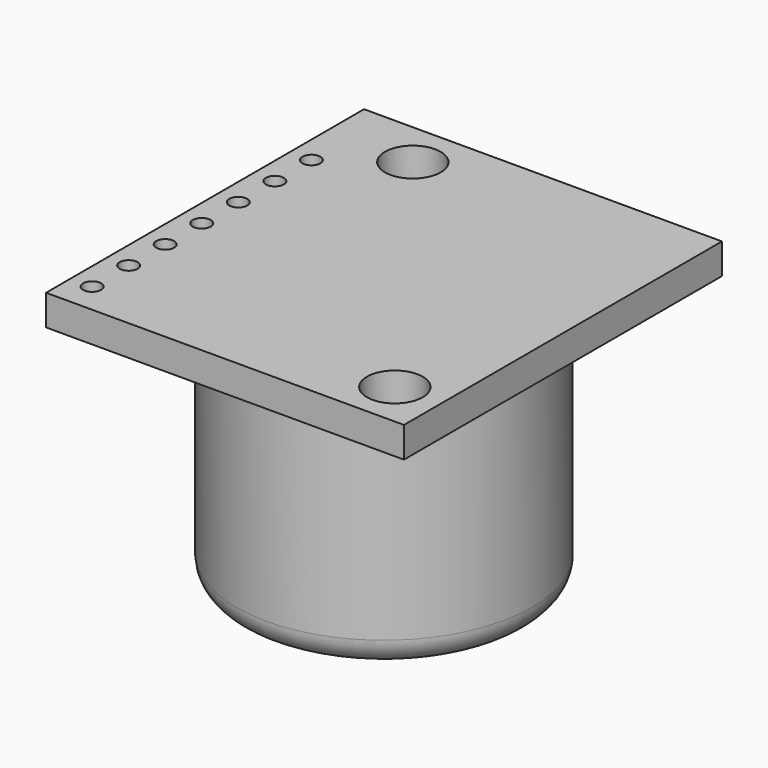
from build123d import *

# Parameters (mm, degrees)
F0_W     = 19.9
F0_H     = 22.1
F1_DEPTH = 1.7
F2_D     = 3.1
F2_DEPTH = 5
F3_D     = 1
F3_DEPTH = 5
F4_R     = 8.2
F5_DEPTH = 13.8
F6_R     = 1.5


with BuildPart() as f1:
    # F0 (on Top) → F1 (new body)
    with BuildSketch(Plane.XY):
        Rectangle(F0_W, F0_H)
    extrude(amount=-F1_DEPTH)

    # F2
    with Locations(Plane.XY):
        with Locations((-5.19, 8.49), (7.41, -8.51)):
            Hole(F2_D / 2, depth=F2_DEPTH)

    # F3
    with Locations(Plane.XY):
        with Locations((-8.75, 5.89), (-8.75, 3.35), (-8.75, 0.81), (-8.75, -1.73), (-8.75, -4.27), (-8.75, -6.81), (-8.75, -9.35)):
            Hole(F3_D / 2, depth=F3_DEPTH)

    # F4 (on face) → F5 (join)
    with BuildSketch(Plane(origin=(0, 0, -1.7), x_dir=(1, 0, 0), z_dir=(0, 0, -1))):
        Circle(F4_R)
    extrude(amount=F5_DEPTH)

    # F6
    f6_edges = [f1.edges().sort_by_distance(p)[0] for p in [
        (-8.2, 0, -15.5),
    ]]
    fillet(f6_edges, radius=F6_R)


solid = f1.part
